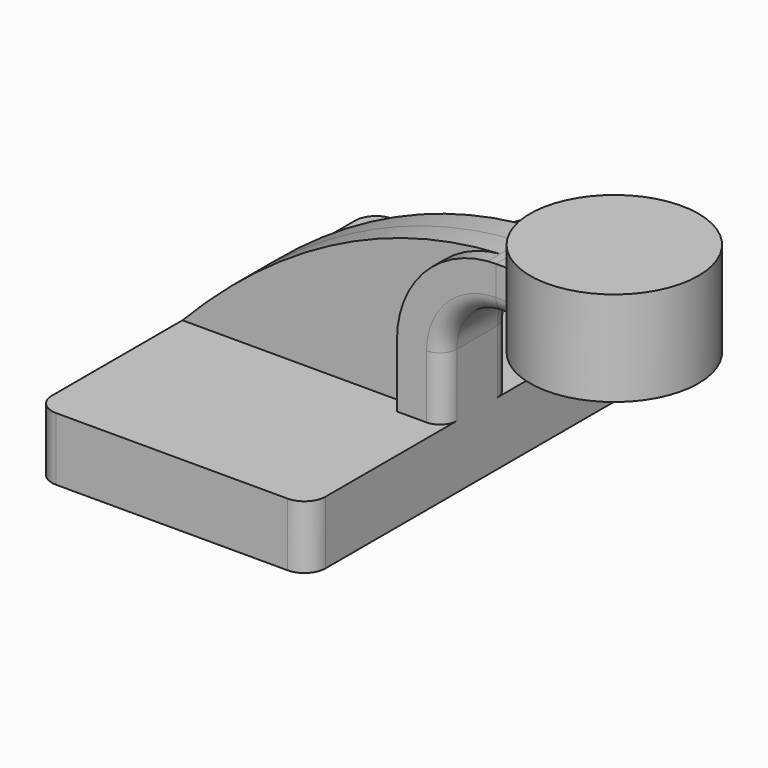
from build123d import *

# Parameters (mm, degrees)
F1_DEPTH  = 63.5
F2_DEPTH  = 12.7
F3_DEPTH  = 7.9375
F5_R      = 6.35
F6_W      = 25.4
F6_H      = 28.575
F8_R      = 6.35
F9_R      = 6.35
F10_R     = 5.08
F11_DEPTH = 12.7


with BuildPart() as f1:
    # F0 (on Front) → F1 (new body, symmetric)
    with BuildSketch(Plane.XZ):
        Polygon((41.275, -9.525), (41.275, 9.525), (27.270238, 9.525), (-41.275, 9.525), (-41.275, -9.525), align=None)
    extrude(amount=F1_DEPTH, both=True)

    # F0 (on Front) → F2 (join, symmetric)
    with BuildSketch(Plane.XZ):
        with BuildLine():
            Line((27.270238, 9.525), (41.275, 9.525))
            Line((41.275, 9.525), (41.275, 28.575))
            ThreePointArc((41.275, 28.575), (45.92468, 39.80032), (57.15, 44.45))
            Line((57.15, 44.45), (57.15, 58.454762))
            add(Edge.make_bspline(
                [(54.670299, 58.35169), (55.494711, 58.394695), (56.321283, 58.429082), (57.15, 58.454762)],
                knots=[107.495526, 107.495526, 107.495526, 107.495526, 109.916342, 109.916342, 109.916342, 109.916342], degree=3))
            ThreePointArc((54.670299, 58.35169), (35.162583, 48.80749), (27.270238, 28.575))
            Line((27.270238, 28.575), (27.270238, 9.525))
        make_face()
    extrude(amount=F2_DEPTH, both=True)

    # F0 (on Front) → F3 (join, symmetric)
    with BuildSketch(Plane.XZ):
        with BuildLine():
            Line((-41.275, 9.525), (27.270238, 9.525))
            Line((27.270238, 9.525), (27.270238, 28.575))
            ThreePointArc((27.270238, 28.575), (35.162583, 48.80749), (54.670299, 58.35169))
            add(Edge.make_bspline(
                [(-41.275, 9.525), (-14.289114, 37.540552), (18.062517, 56.442069), (54.670299, 58.35169)],
                knots=[0, 0, 0, 0, 107.495526, 107.495526, 107.495526, 107.495526], degree=3))
        make_face()
    extrude(amount=F3_DEPTH, both=True)

    # F5
    f5_edges = [f1.edges().sort_by_distance(p)[0] for p in [
        (41.275, -63.5, 0),
    ]]
    fillet(f5_edges, radius=F5_R)

    # F8
    f8_edges = [f1.edges().sort_by_distance(p)[0] for p in [
        (-41.275, -63.5, 0),
    ]]
    fillet(f8_edges, radius=F8_R)

    # F9
    f9_edges = [f1.edges().sort_by_distance(p)[0] for p in [
        (41.275, 63.5, 0),
        (-41.275, 63.5, 0),
    ]]
    fillet(f9_edges, radius=F9_R)

    # F10
    f10_edges = [f1.edges().sort_by_distance(p)[0] for p in [
        (45.92468, -12.7, 39.80032),
        (41.275, 12.7, 19.05),
    ]]
    fillet(f10_edges, radius=F10_R)


with BuildPart() as f7:
    # F6 (on Front) → F7 (revolve)
    with BuildSketch(Plane.XZ):
        with Locations((95.385324, 52.396486)):
            Rectangle(F6_W, F6_H)
    revolve(axis=Axis((82.685324, 0, 52.396486), (0, 0, 1)))


with BuildPart() as f11:
    # F2_face (on face) → F11 (new body)
    with BuildSketch(Plane(origin=(57.15, 0, 51.640956), x_dir=(0, 1, 0), z_dir=(1, 0, 0))):
        with BuildLine():
            Line((-7.62, -7.190956), (7.62, -7.190956))
            ThreePointArc((7.62, -7.190956), (11.212102, -5.703059), (12.7, -2.110956))
            Line((12.7, -2.110956), (12.7, 6.813806))
            Line((12.7, 6.813806), (0, 6.813806))
            Line((0, 6.813806), (-12.7, 6.813806))
            Line((-12.7, 6.813806), (-12.7, -2.110956))
            ThreePointArc((-12.7, -2.110956), (-11.212102, -5.703059), (-7.62, -7.190956))
        make_face()
    extrude(amount=F11_DEPTH)


solid = Compound([f1.part, f7.part, f11.part])
